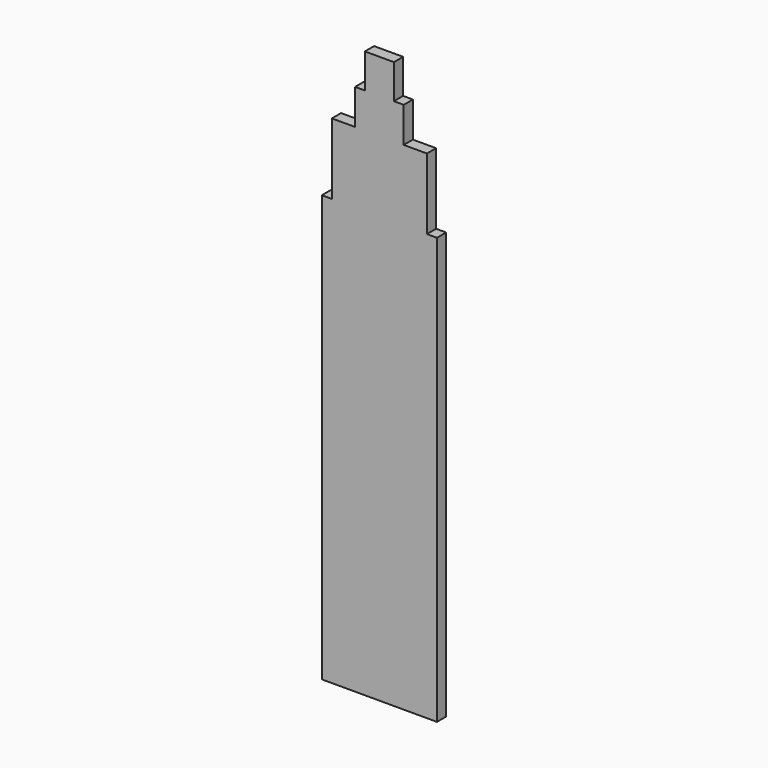
from build123d import *

# Parameters (mm, degrees)
F0_W     = 6.408992
F0_H     = 7.585215
F1_DEPTH = 2.54


with BuildPart() as f1:
    # F0 (on Front) → F1 (new body)
    with BuildSketch(Plane.XZ):
        Polygon((-12.7, 0), (0, 0), (12.7, 0), (12.7, 93.983997), (10.482716, 93.983997), (-10.482716, 93.983997), (-12.7, 93.983997), align=None)
        Polygon((-10.482716, 109.624464), (-10.482716, 93.983997), (10.482716, 93.983997), (10.482716, 109.624464), (5.35761, 109.624464), (-5.35761, 109.624464), align=None)
        Polygon((-5.35761, 117.408185), (-5.35761, 109.624464), (5.35761, 109.624464), (5.35761, 117.408185), (3.204496, 117.408185), (-3.204496, 117.408185), align=None)
        with Locations((0, 121.200792)):
            Rectangle(F0_W, F0_H)
    extrude(amount=-F1_DEPTH)


solid = f1.part
